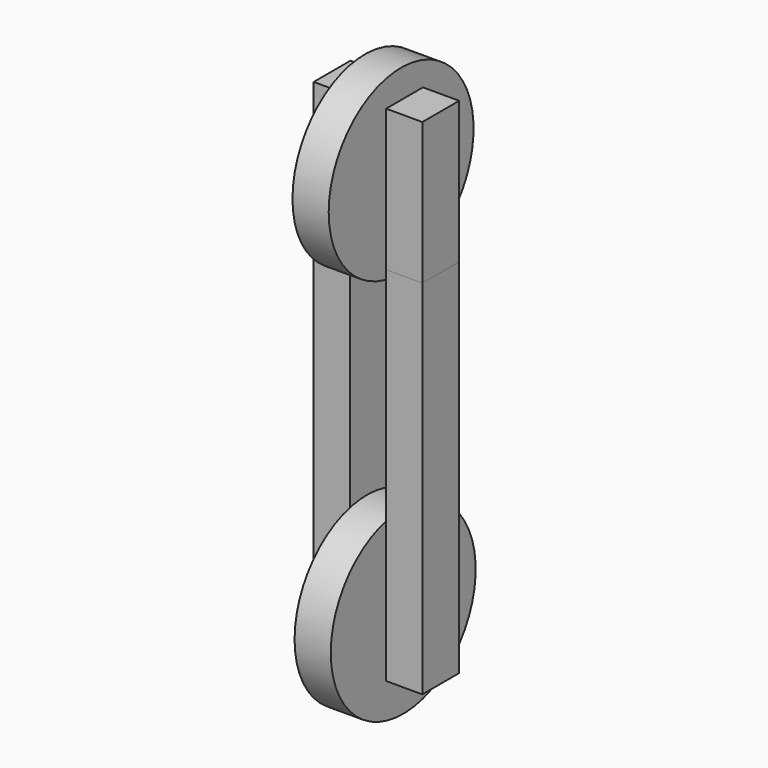
from build123d import *

# Parameters (mm, degrees)
F0_W      = 25.4
F0_H      = 254
F2_DEPTH  = 32.304034
F2_FACE_W = 25.4
F2_FACE_H = 32.304034
F3_DEPTH  = 99.393887
F4_R      = 63.5
F5_DEPTH  = 25.4


with BuildPart() as f2:
    # F0 (on Front) → F2 (new body)
    with BuildSketch(Plane.XZ):
        with Locations((-25.4, -8.166723)):
            Rectangle(F0_W, F0_H)
        with Locations((25.4, -8.166723)):
            Rectangle(F0_W, F0_H)
    extrude(amount=F2_DEPTH)


with BuildPart() as f3:
    # F2_face (on face) → F3 (new body)
    with BuildSketch(Plane(origin=(25.4, -16.152017, 118.833277), x_dir=(1, 0, 0), z_dir=(0, 0, 1))):
        Rectangle(F2_FACE_W, F2_FACE_H)
        with Locations((-50.8, 0)):
            Rectangle(F2_FACE_W, F2_FACE_H)
    extrude(amount=F3_DEPTH)


with BuildPart() as f5:
    # F4 (on face) → F5 (new body)
    with BuildSketch(Plane(origin=(12.7, 0, 0), x_dir=(0, -1, 0), z_dir=(-1, 0, 0))):
        with Locations((19.141689, 174.716711)):
            Circle(F4_R)
        with Locations((17.304808, -98.058484)):
            Circle(F4_R)
    extrude(amount=F5_DEPTH)


solid = Compound([f2.part, f3.part, f5.part])
